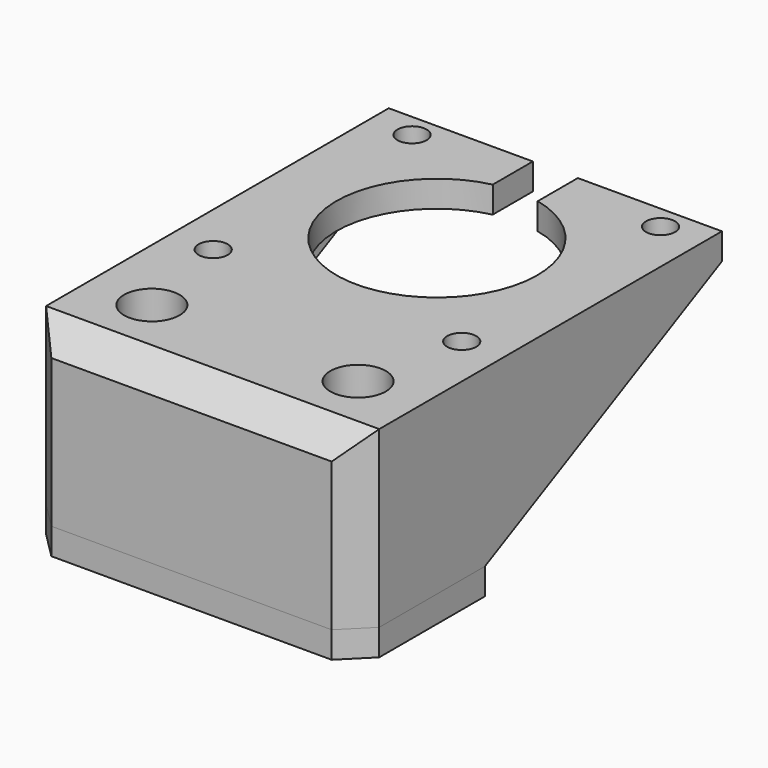
from build123d import *

# Parameters (mm, degrees)
F0_W      = 57
F0_H      = 56
F1_DEPTH  = 5
F2_R      = 2.75
F3_DEPTH  = 25
F4_W      = 57
F4_H      = 30
F5_DEPTH  = 33
F6_R      = 5.25
F7_DEPTH  = 23
F8_R      = 3.25
F9_DEPTH  = 33.001
F11_DEPTH = 3
F13_DEPTH = 3
F14_SIZE  = 5
F15_R     = 3.25
F16_DEPTH = 5


with BuildPart() as f1:
    # F0 (on Top) → F1 (new body)
    with BuildSketch(Plane.XY):
        Rectangle(F0_W, F0_H)
    extrude(amount=F1_DEPTH)

    # F2 (on face) → F3 (cut)
    with BuildSketch(Plane.XY.offset(5)):
        with Locations((-23.5, -23.5)):
            Circle(F2_R)
        with Locations((23.5, -23.5)):
            Circle(F2_R)
        with Locations((23.5, 23.5)):
            Circle(F2_R)
        with Locations((-23.5, 23.5)):
            Circle(F2_R)
        with BuildLine():
            Line((-4.25, 28), (-4.25, 18.518572))
            ThreePointArc((-4.25, 18.518572), (0, -19), (4.25, 18.518572))
            Line((4.25, 18.518572), (4.25, 28))
            Line((4.25, 28), (-4.25, 28))
        make_face()
    extrude(amount=-F3_DEPTH, mode=Mode.SUBTRACT)

    # F4 (on face) → F5 (join)
    with BuildSketch(Plane.XY.offset(5)):
        with Locations((0, -43)):
            Rectangle(F4_W, F4_H)
    extrude(amount=-F5_DEPTH)

    # F6 (on face) → F7 (cut)
    with BuildSketch(Plane.XY.offset(5)):
        with Locations((-19.5, -43)):
            Circle(F6_R)
        with Locations((19.5, -43)):
            Circle(F6_R)
    extrude(amount=-F7_DEPTH, mode=Mode.SUBTRACT)

    # F8 (on face) → F9 (cut, through all)
    with BuildSketch(Plane.XY.offset(5)):
        with Locations((-19.5, -43)):
            Circle(F8_R)
        with Locations((19.5, -43)):
            Circle(F8_R)
    extrude(amount=-F9_DEPTH, mode=Mode.SUBTRACT)

    # F10 (on face) → F11 (join)
    with BuildSketch(Plane.YZ.offset(28.5)):
        Polygon((-28, -28), (-28, 0), (28, 0), (28, 5), (-58, 5), (-58, -28), align=None)
        Polygon((28, 0), (-28, 0), (-28, -28), align=None)
    extrude(amount=F11_DEPTH)

    # F12 (on face) → F13 (join)
    with BuildSketch(Plane(origin=(-28.5, 0, 0), x_dir=(0, -1, 0), z_dir=(-1, 0, 0))):
        Polygon((28, 0), (-28, 0), (28, -28), align=None)
        Polygon((-28, 5), (-28, 0), (28, 0), (28, -28), (58, -28), (58, 5), align=None)
    extrude(amount=F13_DEPTH)

    # F14
    f14_edges = [f1.edges().sort_by_distance(p)[0] for p in [
        (31.5, -58, -11.5),
        (-31.5, -58, -11.5),
        (0, -58, 5),
    ]]
    chamfer(f14_edges, length=F14_SIZE)


with BuildPart() as f16:
    # F15 (on face) → F16 (new body)
    with BuildSketch(Plane(origin=(0, 0, -28), x_dir=(1, 0, 0), z_dir=(0, 0, -1))):
        Polygon((31.5, 53), (26.5, 58), (-26.5, 58), (-31.5, 53), (-31.5, 28), (-28.5, 28), (28.5, 28), (31.5, 28), align=None)
        with Locations((-19.5, 43)):
            Circle(F15_R, mode=Mode.SUBTRACT)
        with Locations((19.5, 43)):
            Circle(F15_R, mode=Mode.SUBTRACT)
    extrude(amount=F16_DEPTH)


solid = Compound([f1.part, f16.part])
